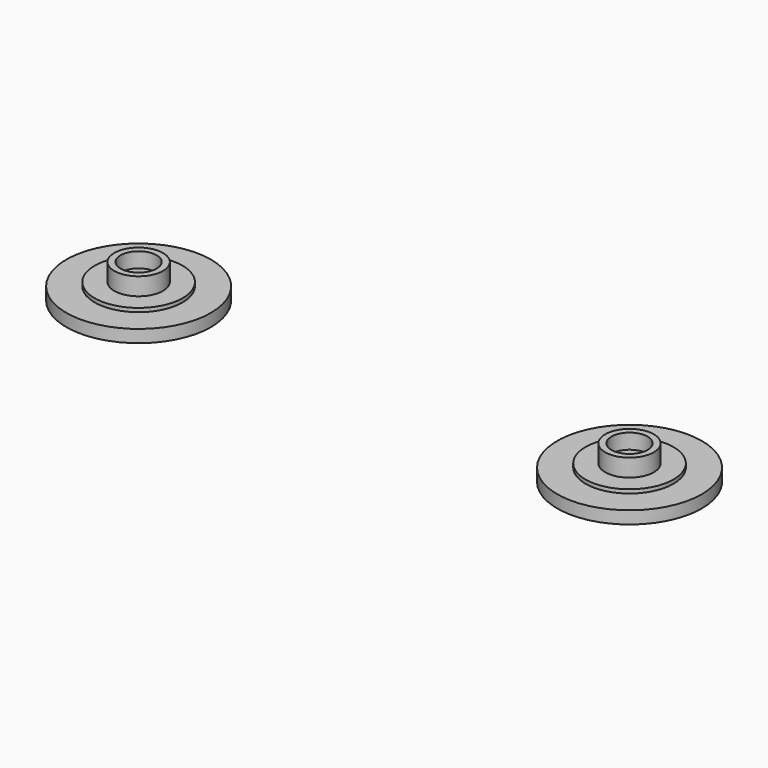
from build123d import *

# Parameters (mm, degrees)
F0_R     = 3.875
F1_DEPTH = 3.4
F0_R_2   = 7
F2_DEPTH = 0.6
F0_R_3   = 11.5
F3_DEPTH = 2
F4_T     = -1
F4_2_T   = -1


with BuildPart() as f1:
    # F0 (on Top) → F1 (new body)
    with BuildSketch(Plane.XY):
        with Locations((-39.0570946038, 0)):
            Circle(F0_R)
    extrude(amount=F1_DEPTH)

    # F4
    f4_openings = [f1.faces().sort_by_distance(p)[0] for p in [
        (-39.057095, 0, 3.4),
    ]]
    offset(amount=F4_T, openings=f4_openings)


with BuildPart() as f1b:
    # F0 (on Top) → F1, piece 2 (new body)
    with BuildSketch(Plane.XY):
        with Locations((39.0570946038, 0)):
            Circle(F0_R)
    extrude(amount=F1_DEPTH)

    # F4#2
    f4_2_openings = [f1b.faces().sort_by_distance(p)[0] for p in [
        (39.057095, 0, 3.4),
    ]]
    offset(amount=F4_2_T, openings=f4_2_openings)


with BuildPart() as f2:
    # F0 (on Top) → F2 (new body)
    with BuildSketch(Plane.XY):
        with Locations((-39.0570946038, 0)):
            Circle(F0_R_2)
        with Locations((-39.0570946038, 0)):
            Circle(F0_R, mode=Mode.SUBTRACT)
    extrude(amount=F2_DEPTH)


with BuildPart() as f2b:
    # F0 (on Top) → F2, piece 2 (new body)
    with BuildSketch(Plane.XY):
        with Locations((39.0570946038, 0)):
            Circle(F0_R_2)
        with Locations((39.0570946038, 0)):
            Circle(F0_R, mode=Mode.SUBTRACT)
    extrude(amount=F2_DEPTH)


with BuildPart() as f3:
    # F0 (on Top) → F3 (new body)
    with BuildSketch(Plane.XY):
        with Locations((-39.0570946038, 0)):
            Circle(F0_R_3)
        with Locations((-39.0570946038, 0)):
            Circle(F0_R_2, mode=Mode.SUBTRACT)
        with Locations((-39.0570946038, 0)):
            Circle(F0_R_2)
        with Locations((-39.0570946038, 0)):
            Circle(F0_R, mode=Mode.SUBTRACT)
        with Locations((-39.0570946038, 0)):
            Circle(F0_R)
    extrude(amount=-F3_DEPTH)


with BuildPart() as f3b:
    # F0 (on Top) → F3, piece 2 (new body)
    with BuildSketch(Plane.XY):
        with Locations((39.0570946038, 0)):
            Circle(F0_R_3)
        with Locations((39.0570946038, 0)):
            Circle(F0_R_2, mode=Mode.SUBTRACT)
        with Locations((39.0570946038, 0)):
            Circle(F0_R_2)
        with Locations((39.0570946038, 0)):
            Circle(F0_R, mode=Mode.SUBTRACT)
        with Locations((39.0570946038, 0)):
            Circle(F0_R)
    extrude(amount=-F3_DEPTH)


solid = Compound([f1.part, f1b.part, f2.part, f2b.part, f3.part, f3b.part])
